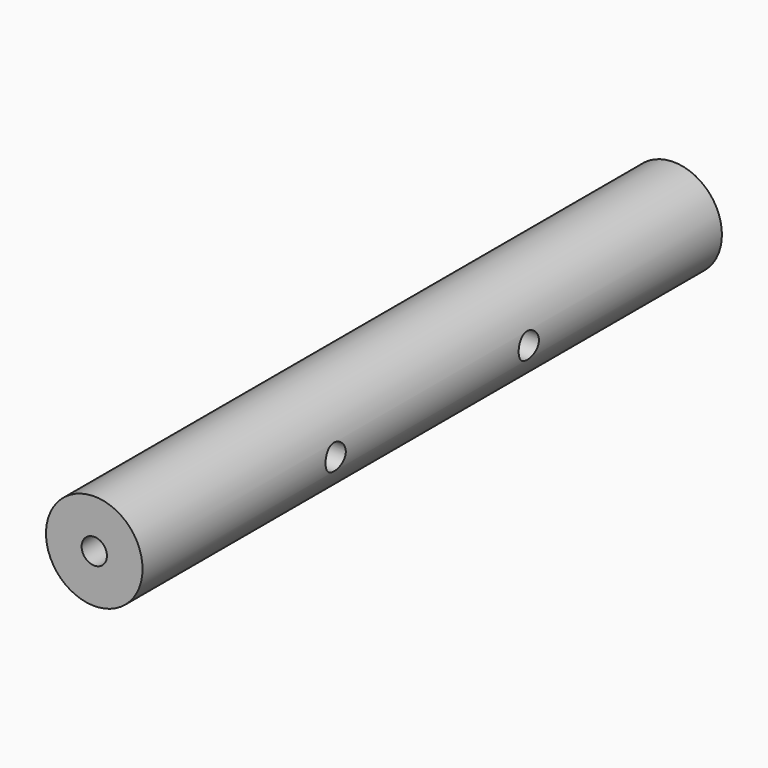
from build123d import *

# Parameters (mm, degrees)
F0_R     = 8
F1_DEPTH = 60
F3_D     = 4.2
F3_DEPTH = 14.4
F3_TIP   = 1.2618073
F5_D     = 4.2
F5_DEPTH = 14.4
F5_TIP   = 1.2618073
F8_D     = 4.2
F8_DEPTH = 14.4
F8_TIP   = 1.2618073


with BuildPart() as f1:
    # F0 (on Front) → F1 (new body, symmetric)
    with BuildSketch(Plane.XZ):
        Circle(F0_R)
    extrude(amount=F1_DEPTH, both=True)

    # F3
    with Locations(Plane.XZ.offset(60)):
        with Locations((0, 0)):
            Hole(F3_D / 2, depth=F3_DEPTH)
            with Locations((0, 0, -(F3_DEPTH + F3_TIP / 2))):  # 118° drill point
                Cone(0, F3_D / 2, F3_TIP, mode=Mode.SUBTRACT)

    # F5
    with Locations(Plane(origin=(0, 60, 0), x_dir=(-1, 0, 0), z_dir=(0, 1, 0))):
        with Locations((0, 0)):
            Hole(F5_D / 2, depth=F5_DEPTH)
            with Locations((0, 0, -(F5_DEPTH + F5_TIP / 2))):  # 118° drill point
                Cone(0, F5_D / 2, F5_TIP, mode=Mode.SUBTRACT)

    # F8
    with Locations(Plane.YZ.offset(8)):
        with Locations((20, 0), (-20, 0)):
            Hole(F8_D / 2, depth=F8_DEPTH)
            with Locations((0, 0, -(F8_DEPTH + F8_TIP / 2))):  # 118° drill point
                Cone(0, F8_D / 2, F8_TIP, mode=Mode.SUBTRACT)


solid = f1.part
